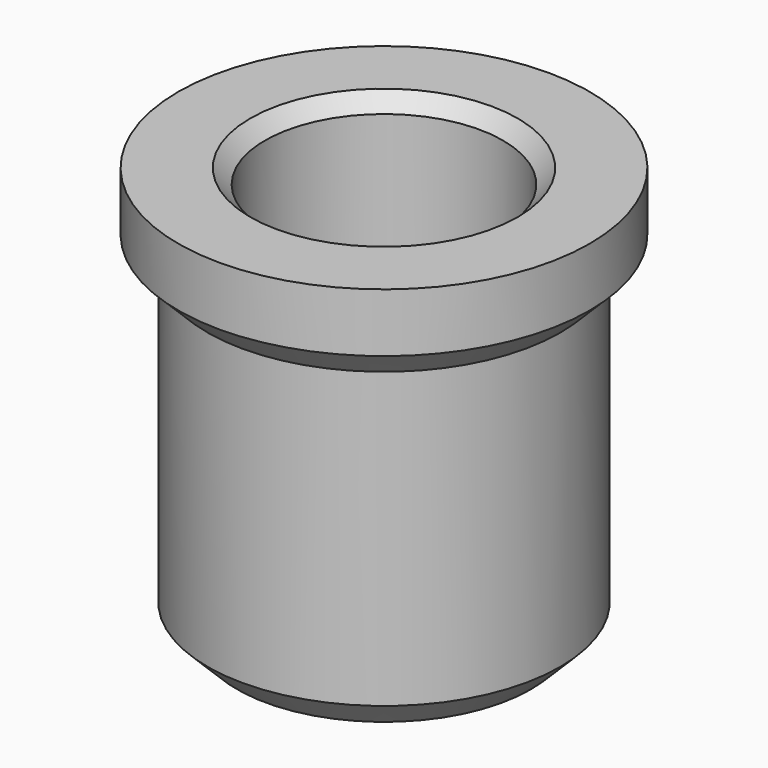
from build123d import *

# Parameters (mm, degrees)
CYLINDER001_R     = 4.05
CYLINDER001_DEPTH = 28
CYLINDER_R        = 6
CYLINDER_DEPTH    = 12
SKETCH_R          = 7
PAD_DEPTH         = 2
CHAMFER_SIZE      = 0.99
CHAMFER001_SIZE   = 1
CHAMFER002_SIZE   = 0.5


with BuildPart() as cilindro001:
    # Cylinder001 → Cylinder001 (new body)
    with BuildSketch(Plane.XY.offset(-1)):
        Circle(CYLINDER001_R)
    extrude(amount=CYLINDER001_DEPTH)


with BuildPart() as chamfer002:
    # Cylinder → Cylinder (new body)
    with BuildSketch(Plane.XY):
        Circle(CYLINDER_R)
    extrude(amount=CYLINDER_DEPTH)

    # Sketch → Pad (new body)
    with BuildSketch(Plane.XY.offset(12)):
        Circle(SKETCH_R)
    extrude(amount=PAD_DEPTH)

    # Cut: cut Cilindro001
    add(cilindro001.part, mode=Mode.SUBTRACT)

    # Chamfer
    chamfer_edges = [chamfer002.edges().sort_by_distance(p)[0] for p in [
        (-6, 0, 12),
    ]]
    chamfer(chamfer_edges, length=CHAMFER_SIZE)

    # Chamfer001
    chamfer001_edges = [chamfer002.edges().sort_by_distance(p)[0] for p in [
        (-6, 0, 0),
    ]]
    chamfer(chamfer001_edges, length=CHAMFER001_SIZE)

    # Chamfer002
    chamfer002_edges = [chamfer002.edges().sort_by_distance(p)[0] for p in [
        (-4.05, 0, 14),
    ]]
    chamfer(chamfer002_edges, length=CHAMFER002_SIZE)


solid = chamfer002.part
